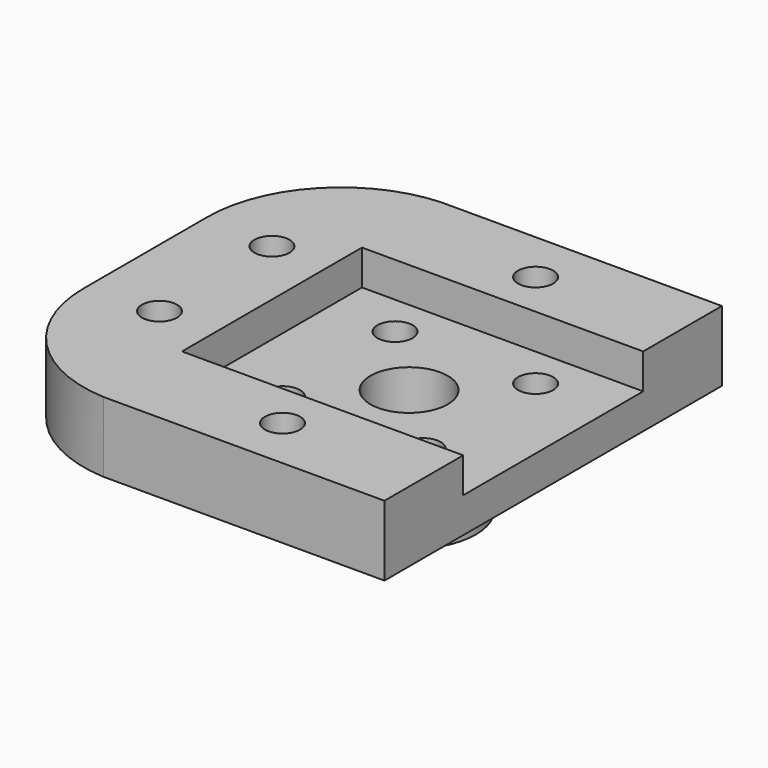
from build123d import *

# Parameters (mm, degrees)
F0_W     = 40
F0_H     = 32
F0_R     = 2.5
F0_R_2   = 5.5
F1_DEPTH = 20
F2_DEPTH = 10
F3_R     = 2.5
F4_DEPTH = 4
F5_W     = 40
F5_H     = 32
F5_R     = 2.5
F5_R_2   = 9.5
F6_DEPTH = 10
F7_DEPTH = 5


with BuildPart() as f1:
    # F0 (on Top) → F1 (new body)
    with BuildSketch(Plane.XY):
        with Locations((0.5, 0)):
            Rectangle(F0_W, F0_H)
        with Locations((-10, -10)):
            Circle(F0_R, mode=Mode.SUBTRACT)
        with Locations((10, -10)):
            Circle(F0_R, mode=Mode.SUBTRACT)
        with Locations((-10, 10)):
            Circle(F0_R, mode=Mode.SUBTRACT)
        Circle(F0_R_2, mode=Mode.SUBTRACT)
        with Locations((10, 10)):
            Circle(F0_R, mode=Mode.SUBTRACT)
    extrude(amount=-F1_DEPTH)

    # F0 (on Top) → F2 (join)
    with BuildSketch(Plane.XY):
        with BuildLine():
            ThreePointArc((-19.5, 30), (-32.285489, 24.086252), (-37.5, 11))
            Line((-37.5, 11), (-37.5, -11))
            ThreePointArc((-37.5, -11), (-32.285489, -24.086252), (-19.5, -30))
            Line((-19.5, -30), (20.5, -30))
            Line((20.5, -30), (20.5, -16))
            Line((20.5, -16), (-19.5, -16))
            Line((-19.5, -16), (-19.5, 16))
            Line((-19.5, 16), (20.5, 16))
            Line((20.5, 16), (20.5, 30))
            Line((20.5, 30), (-19.5, 30))
        make_face()
        with Locations((-27.5, -10)):
            Circle(F0_R, mode=Mode.SUBTRACT)
        with Locations((0, -22.5)):
            Circle(F0_R, mode=Mode.SUBTRACT)
        with Locations((-27.5, 10)):
            Circle(F0_R, mode=Mode.SUBTRACT)
        with Locations((0, 22.5)):
            Circle(F0_R, mode=Mode.SUBTRACT)
    extrude(amount=-F2_DEPTH)

    # F3 (on face) → F4 (cut)
    with BuildSketch(Plane(origin=(0, 0, -10), x_dir=(1, 0, 0), z_dir=(0, 0, -1))):
        Polygon((3.5, 20.479274), (3.5, 24.520726), (0, 26.541452), (-3.5, 24.520726), (-3.5, 20.479274), (0, 18.458548), align=None)
        with Locations((0, 22.5)):
            Circle(F3_R, mode=Mode.SUBTRACT)
        Polygon((-24, 7.979274), (-24, 12.020726), (-27.5, 14.041452), (-31, 12.020726), (-31, 7.979274), (-27.5, 5.958548), align=None)
        with Locations((-27.5, 10)):
            Circle(F3_R, mode=Mode.SUBTRACT)
        Polygon((3.5, -24.520726), (3.5, -20.479274), (0, -18.458548), (-3.5, -20.479274), (-3.5, -24.520726), (0, -26.541452), align=None)
        with Locations((0, -22.5)):
            Circle(F3_R, mode=Mode.SUBTRACT)
        Polygon((-24, -12.020726), (-24, -7.979274), (-27.5, -5.958548), (-31, -7.979274), (-31, -12.020726), (-27.5, -14.041452), align=None)
        with Locations((-27.5, -10)):
            Circle(F3_R, mode=Mode.SUBTRACT)
    extrude(amount=-F4_DEPTH, mode=Mode.SUBTRACT)

    # F5 (on face) → F6 (cut)
    with BuildSketch(Plane(origin=(0, 0, -20), x_dir=(1, 0, 0), z_dir=(0, 0, -1))):
        with Locations((0.5, 0)):
            Rectangle(F5_W, F5_H)
        with Locations((-10, -10)):
            Circle(F5_R, mode=Mode.SUBTRACT)
        with Locations((10, -10)):
            Circle(F5_R, mode=Mode.SUBTRACT)
        Circle(F5_R_2, mode=Mode.SUBTRACT)
        with Locations((-10, 10)):
            Circle(F5_R, mode=Mode.SUBTRACT)
        with Locations((10, 10)):
            Circle(F5_R, mode=Mode.SUBTRACT)
    extrude(amount=-F6_DEPTH, mode=Mode.SUBTRACT)

    # F0 (on Top) → F7 (cut)
    with BuildSketch(Plane.XY):
        with Locations((0.5, 0)):
            Rectangle(F0_W, F0_H)
        with Locations((-10, -10)):
            Circle(F0_R, mode=Mode.SUBTRACT)
        with Locations((10, -10)):
            Circle(F0_R, mode=Mode.SUBTRACT)
        with Locations((-10, 10)):
            Circle(F0_R, mode=Mode.SUBTRACT)
        Circle(F0_R_2, mode=Mode.SUBTRACT)
        with Locations((10, 10)):
            Circle(F0_R, mode=Mode.SUBTRACT)
    extrude(amount=-F7_DEPTH, mode=Mode.SUBTRACT)


solid = f1.part
